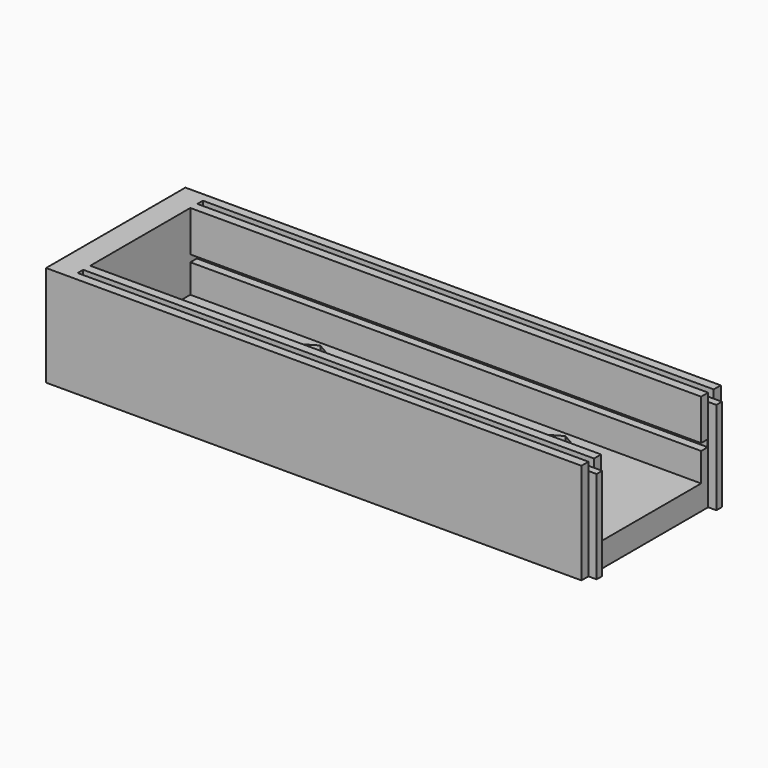
from build123d import *

# Parameters (mm, degrees)
SKETCH_W        = 137
SKETCH_H        = 42.62
SKETCH_R        = 2.5
SKETCH_W_2      = 3
SKETCH_H_2      = 7
PAD_DEPTH       = 24.7
SKETCH001_W     = 125
SKETCH001_H     = 30.62
POCKET_DEPTH    = 18.7
POCKET001_DEPTH = 2
POCKET002_DEPTH = 24.7
SKETCH004_W     = 1.7
SKETCH004_H     = 2
SKETCH004_W_2   = 2
SKETCH004_H_2   = 1.7
POCKET003_DEPTH = 127


with BuildPart() as part:
    # Sketch → Pad (new body)
    with BuildSketch(Plane.XY):
        Rectangle(SKETCH_W, SKETCH_H)
        with Locations((30, 9.81)):
            Circle(SKETCH_R, mode=Mode.SUBTRACT)
        with Locations((-30, 9.81)):
            Circle(SKETCH_R, mode=Mode.SUBTRACT)
        with Locations((-56, -5.81)):
            Rectangle(SKETCH_W_2, SKETCH_H_2, mode=Mode.SUBTRACT)
    extrude(amount=PAD_DEPTH)

    # Sketch001 (on Face12 of Pad) → Pocket (cut)
    with BuildSketch(Plane.XY.offset(24.7)):
        Rectangle(SKETCH001_W, SKETCH001_H)
    extrude(amount=-POCKET_DEPTH, mode=Mode.SUBTRACT)

    # Sketch002 (on Face17 of Pocket) → Pocket001 (cut)
    with BuildSketch(Plane.XY.offset(6)):
        Polygon((-26, 7.500599), (-26, 12.119401), (-30, 14.428802), (-34, 12.119401), (-34, 7.500599), (-30, 5.191198), align=None)
        Polygon((34, 7.500599), (34, 12.119401), (30, 14.428802), (26, 12.119401), (26, 7.500599), (30, 5.191198), align=None)
    extrude(amount=-POCKET001_DEPTH, mode=Mode.SUBTRACT)

    # Sketch003 (on Face5 of Pocket001) → Pocket002 (cut)
    with BuildSketch(Plane.XY.offset(24.7)):
        Polygon((62.5, 21.31), (68.5, 21.31), (68.5, -21.31), (62.5, -21.31), (62.5, -19.16), (64.5, -19.16), (64.5, -17.46), (62.5, -17.46), (62.5, -15.31), (62.5, 15.31), (62.5, 17.46), (64.5, 17.46), (64.5, 19.16), (62.5, 19.16), align=None)
    extrude(amount=-POCKET002_DEPTH, mode=Mode.SUBTRACT)

    # Sketch004 (on Face9 of Pocket002) → Pocket003 (cut)
    with BuildSketch(Plane.YZ.offset(64.5)):
        with Locations((-18.31, 23.7)):
            Rectangle(SKETCH004_W, SKETCH004_H)
        with Locations((18.31, 23.7)):
            Rectangle(SKETCH004_W, SKETCH004_H)
        with Locations((-16.31, 13.85)):
            Rectangle(SKETCH004_W_2, SKETCH004_H_2)
        with Locations((16.31, 13.85)):
            Rectangle(SKETCH004_W_2, SKETCH004_H_2)
    extrude(amount=-POCKET003_DEPTH, mode=Mode.SUBTRACT)


solid = part.part
